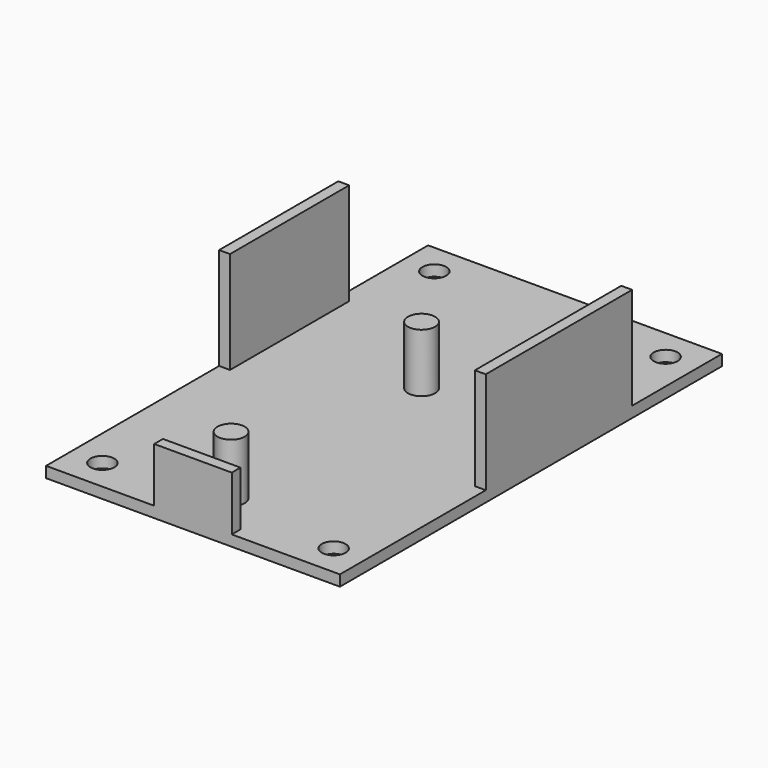
from build123d import *

# Parameters (mm, degrees)
SKETCH_W      = 43.2
SKETCH_H      = 70.2
PAD_DEPTH     = 1.6
SKETCH007_R   = 1.75
POCKET_DEPTH  = 1.6
SKETCH008_W   = 11.4
SKETCH008_H   = 1.6
PAD001_DEPTH  = 8
SKETCH009_W   = 1.6
SKETCH009_H   = 21.9
SKETCH009_H_2 = 26.9
PAD002_DEPTH  = 15
SKETCH010_R   = 2
PAD003_DEPTH  = 8.6


with BuildPart() as part:
    # Sketch → Pad (new body)
    with BuildSketch(Plane.XY):
        with Locations((21.6, 35.1)):
            Rectangle(SKETCH_W, SKETCH_H)
    extrude(amount=PAD_DEPTH)

    # Sketch007 (on Face6 of Pad) → Pocket (cut)
    with BuildSketch(Plane.XY.offset(1.6)):
        with Locations((4.6, 4.6)):
            Circle(SKETCH007_R)
        with Locations((38.6, 4.6)):
            Circle(SKETCH007_R)
        with Locations((4.6, 65.6)):
            Circle(SKETCH007_R)
        with Locations((38.6, 65.6)):
            Circle(SKETCH007_R)
    extrude(amount=-POCKET_DEPTH, mode=Mode.SUBTRACT)

    # Sketch008 (on Face5 of Pocket) → Pad001 (join)
    with BuildSketch(Plane.XY.offset(1.6)):
        with Locations((21.6, 0.8)):
            Rectangle(SKETCH008_W, SKETCH008_H)
    extrude(amount=PAD001_DEPTH)

    # Sketch009 (on Face5 of Pad001) → Pad002 (join)
    with BuildSketch(Plane.XY.offset(1.6)):
        with Locations((0.8, 42.75)):
            Rectangle(SKETCH009_W, SKETCH009_H)
        with Locations((42.4, 40.25)):
            Rectangle(SKETCH009_W, SKETCH009_H_2)
    extrude(amount=PAD002_DEPTH)

    # Sketch010 (on Face5 of Pad002) → Pad003 (join)
    with BuildSketch(Plane.XY.offset(1.6)):
        with Locations((21.6, 42)):
            Circle(SKETCH010_R)
        with Locations((21.6, 7)):
            Circle(SKETCH010_R)
    extrude(amount=PAD003_DEPTH)


solid = part.part
